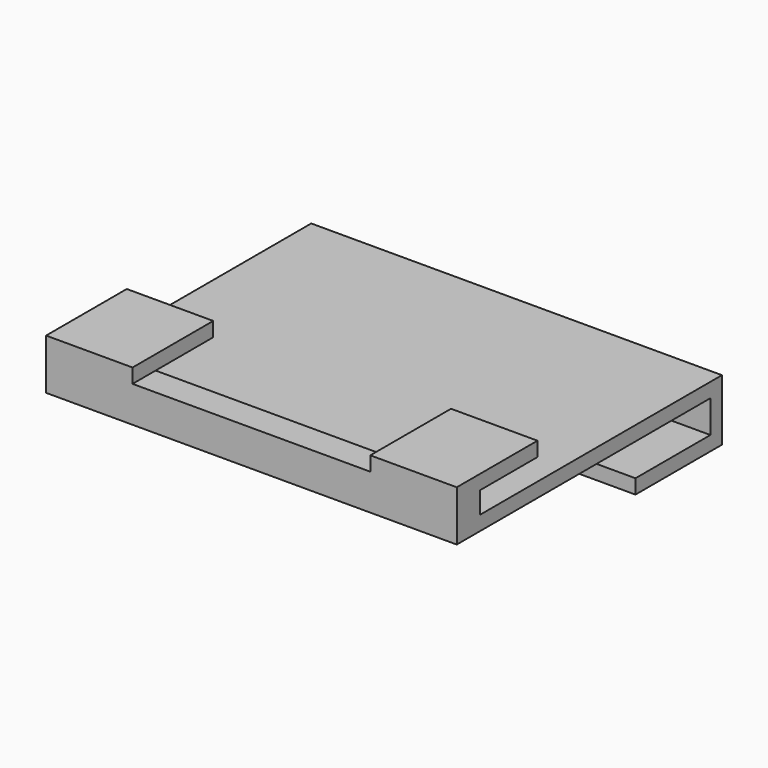
from build123d import *

# Parameters (mm, degrees)
F0_W     = 57
F0_H     = 4
F0_H_2   = 2
F0_H_3   = 40
F1_DEPTH = 2
F2_DEPTH = 3
F3_W     = 12
F3_H     = 14
F4_DEPTH = 2
F5_DEPTH = 6.5
F6_W     = 57
F6_H     = 15
F7_DEPTH = 2


with BuildPart() as f1:
    # F0 (on Top) → F1 (new body)
    with BuildSketch(Plane.XY):
        with Locations((0, -21)):
            Rectangle(F0_W, F0_H)
        with Locations((0, 22)):
            Rectangle(F0_W, F0_H_2)
        with Locations((0, 1)):
            Rectangle(F0_W, F0_H_3)
    extrude(amount=-F1_DEPTH)

    # F0 (on Top) → F2 (join)
    with BuildSketch(Plane.XY):
        with Locations((0, -21)):
            Rectangle(F0_W, F0_H)
    extrude(amount=F2_DEPTH)

    # F3 (on face) → F4 (join)
    with BuildSketch(Plane.XY.offset(3)):
        with Locations((-22.5, -16)):
            Rectangle(F3_W, F3_H)
        with Locations((22.5, -16)):
            Rectangle(F3_W, F3_H)
    extrude(amount=F4_DEPTH)

    # F0 (on Top) → F5 (join)
    with BuildSketch(Plane.XY):
        with Locations((0, 22)):
            Rectangle(F0_W, F0_H_2)
    extrude(amount=-F5_DEPTH)

    # F6 (on face) → F7 (join)
    with BuildSketch(Plane(origin=(0, 0, -6.5), x_dir=(1, 0, 0), z_dir=(0, 0, -1))):
        with Locations((0, -15.5)):
            Rectangle(F6_W, F6_H)
        with Locations((0, -15.5)):
            Rectangle(F6_W, F6_H)
    extrude(amount=F7_DEPTH)


solid = f1.part
